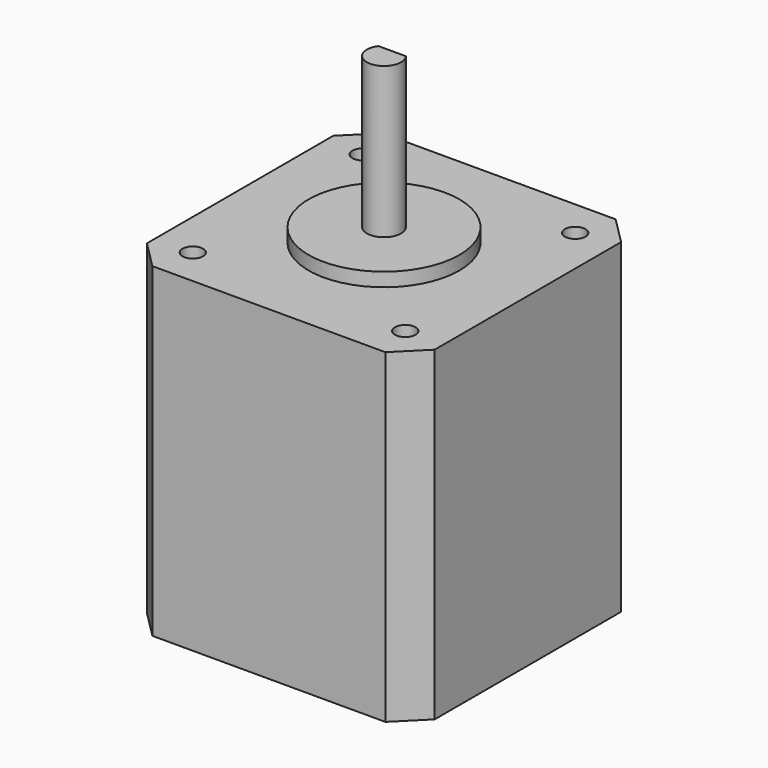
from build123d import *

# Parameters (mm, degrees)
SKETCH_W     = 42
SKETCH_H     = 42
PAD_DEPTH    = 47.5
SKETCH001_R  = 1.5
POCKET_DEPTH = 4.5
SKETCH002_R  = 11
PAD001_DEPTH = 2
PAD002_DEPTH = 22
CHAMFER_SIZE = 4


with BuildPart() as part:
    # Sketch → Pad (new body)
    with BuildSketch(Plane.XY):
        Rectangle(SKETCH_W, SKETCH_H)
    extrude(amount=PAD_DEPTH)

    # Sketch001 → Pocket (cut)
    with BuildSketch(Plane.XY.offset(47.5)):
        with Locations((-15.5, 15.5)):
            Circle(SKETCH001_R)
        with Locations((15.5, 15.5)):
            Circle(SKETCH001_R)
        with Locations((-15.5, -15.5)):
            Circle(SKETCH001_R)
        with Locations((15.5, -15.5)):
            Circle(SKETCH001_R)
    extrude(amount=-POCKET_DEPTH, mode=Mode.SUBTRACT)

    # Sketch002 → Pad001 (new body)
    with BuildSketch(Plane.XY.offset(47.5)):
        Circle(SKETCH002_R)
    extrude(amount=PAD001_DEPTH)

    # Sketch003 → Pad002 (new body)
    with BuildSketch(Plane.XY.offset(49.5)):
        with BuildLine():
            Line((-2, 1.5), (2, 1.5))
            ThreePointArc((-2, 1.5), (0, -2.5), (2, 1.5))
        make_face()
    extrude(amount=PAD002_DEPTH)

    # Chamfer
    chamfer_edges = [part.edges().sort_by_distance(p)[0] for p in [
        (-21, -21, 23.75),
        (21, -21, 23.75),
        (21, 21, 23.75),
        (-21, 21, 23.75),
    ]]
    chamfer(chamfer_edges, length=CHAMFER_SIZE)


solid = part.part
